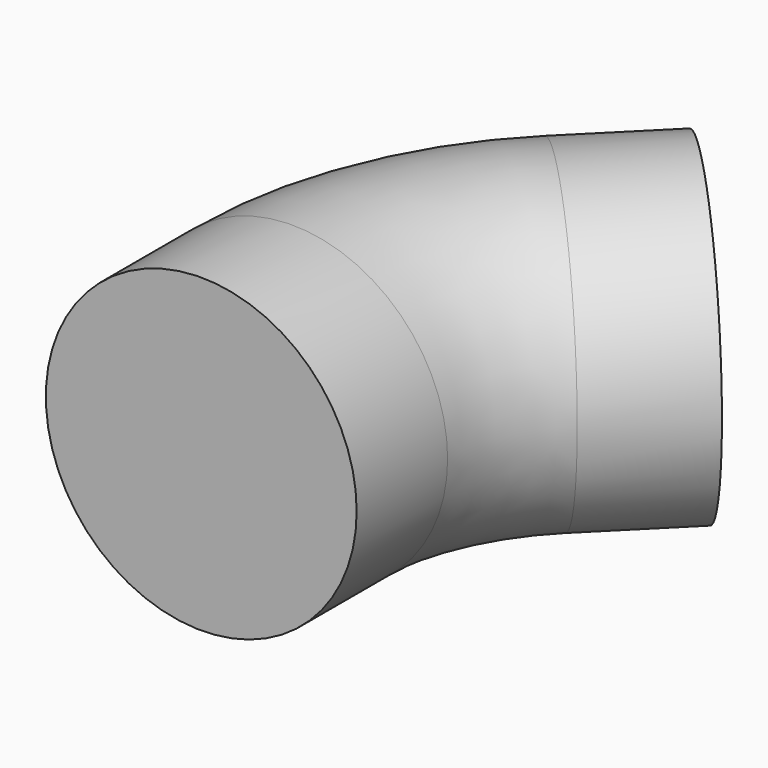
from build123d import *

# Parameters (mm, degrees)
F0_R = 50.8


with BuildPart() as f2:
    # F2: sweep along a path in F1
    with BuildLine(Plane.XY) as f2_path:
        Line((0, 0), (0, 37.163902))
        ThreePointArc((0, 37.163902), (7.733839, 76.044539), (29.757951, 109.005951))
        Line((29.757951, 109.005951), (56.036798, 135.284798))
    # F0 (on Front) → F2 (sweep)
    with BuildSketch(Plane.XZ):
        with Locations((1.473863, 0)):
            Circle(F0_R)
    sweep(path=f2_path.line)


solid = f2.part
